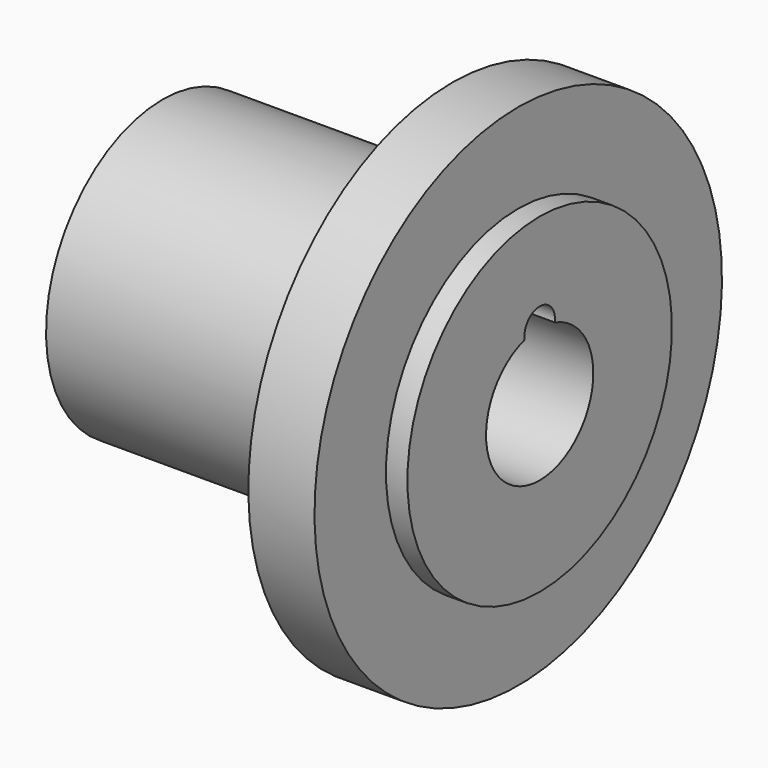
from build123d import *

# Parameters (mm, degrees)
F2_R     = 3.02334
F3_DEPTH = 59.549888


with BuildPart() as f1:
    # F0 (on Front) → F1 (revolve)
    with BuildSketch(Plane.XZ):
        Polygon((-59.548888, 10.583334), (0, 10.583334), (0, 26.105555), (-3.386669, 26.105555), (-3.386669, 40.216666), (-13.828888, 40.216666), (-13.828888, 23.00111), (-59.548888, 23.00111), align=None)
    revolve(axis=Axis((-68.222322, 0, 0), (-1, 0, 0)))

    # F2 (on face) → F3 (cut, through all)
    with BuildSketch(Plane.YZ):
        with Locations((0, 10.583334)):
            Circle(F2_R)
    extrude(amount=-F3_DEPTH, mode=Mode.SUBTRACT)


solid = f1.part
